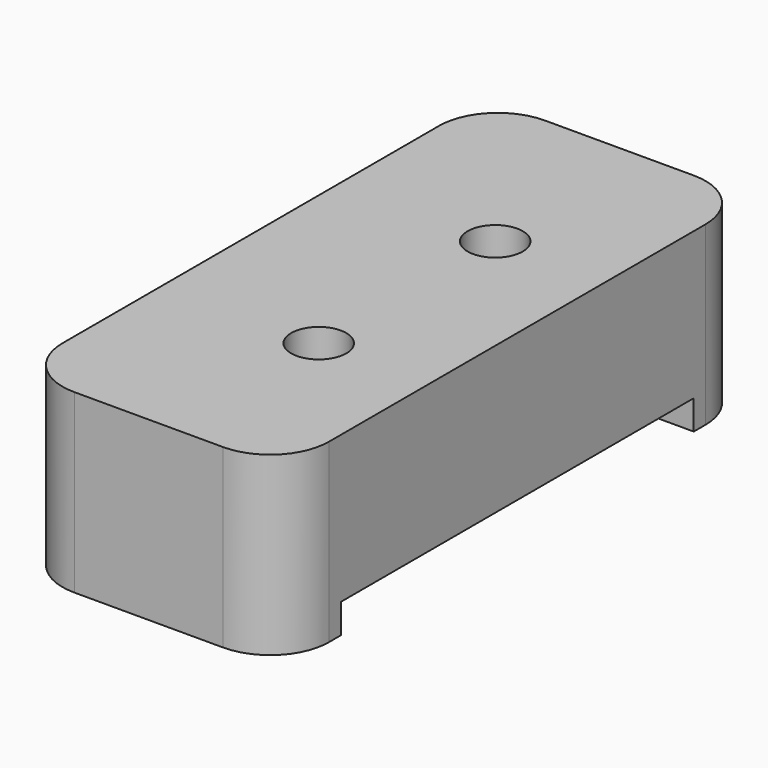
from build123d import *

# Parameters (mm, degrees)
F1_W     = 23.01875
F1_H     = 50.8
F1_R     = 2.38125
F2_DEPTH = 12.7
F4_DEPTH = 2.54
F5_R     = 5.08


with BuildPart() as f2:
    # F1 (on Top) → F2 (new body)
    with BuildSketch(Plane.XY):
        with Locations((-221.059375, 19.05)):
            Rectangle(F1_W, F1_H)
        with Locations((-219.075, 9.525)):
            Circle(F1_R, mode=Mode.SUBTRACT)
        with Locations((-219.075, 28.575)):
            Circle(F1_R, mode=Mode.SUBTRACT)
    extrude(amount=F2_DEPTH)

    # F3 (on face) → F4 (join)
    with BuildSketch(Plane(origin=(0, 0, 0), x_dir=(1, 0, 0), z_dir=(0, 0, -1))):
        Polygon((-209.55, 6.35), (-232.56875, 6.35), (-232.56875, -44.45), (-209.55, -44.45), (-209.55, -38.1), (-226.21875, -38.1), (-226.21875, 0), (-209.55, 0), align=None)
    extrude(amount=F4_DEPTH)

    # F5
    f5_edges = [f2.edges().sort_by_distance(p)[0] for p in [
        (-209.55, -6.35, 5.08),
        (-232.56875, -6.35, 5.08),
        (-232.56875, 44.45, 5.08),
        (-209.55, 44.45, 5.08),
    ]]
    fillet(f5_edges, radius=F5_R)


solid = f2.part
